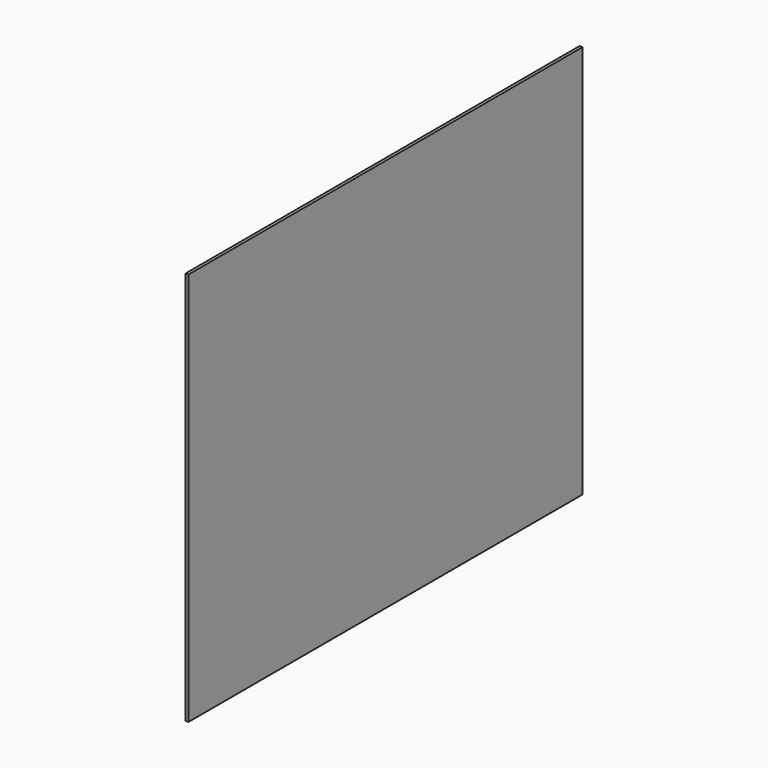
from build123d import *

# Parameters (mm, degrees)
PAD_DEPTH = 3


with BuildPart() as part:
    # Sketch → Pad (new body)
    with BuildSketch(Plane.YZ):
        Polygon((0, 0), (0, 400), (500, 400), (500, 0), (250, 0), align=None)
    extrude(amount=-PAD_DEPTH)


solid = part.part
